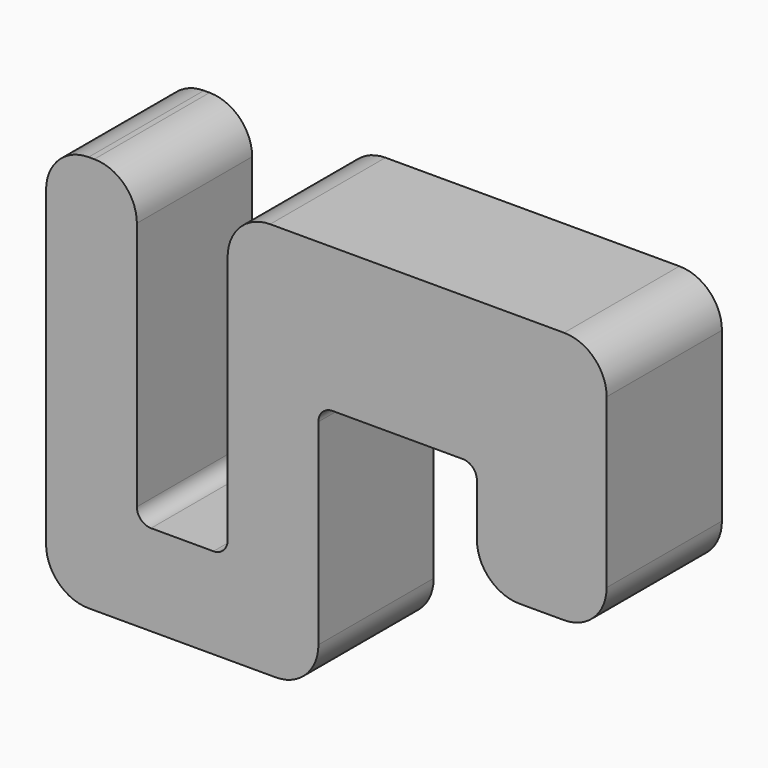
from build123d import *

# Parameters (mm, degrees)
F0_W     = 10.16
F0_H     = 5.08
F0_W_2   = 3.2
F0_H_2   = 3.2
F1_DEPTH = 5.08
F2_W     = 4.572
F2_H     = 5.08
F3_DEPTH = 3.84
F4_R     = 1.5
F5_R     = 0.5


with BuildPart() as f1:
    # F0 (on Front) → F1 (new body)
    with BuildSketch(Plane.XZ):
        with Locations((14.68, 11.46)):
            Rectangle(F0_W, F0_H)
        with BuildLine():
            ThreePointArc((0, 1.27), (0.371974, 0.371974), (1.27, 0))
            Line((1.27, 0), (3.2, 0))
            Line((3.2, 0), (3.2, 3.2))
            Line((3.2, 3.2), (3.2, 10.8))
            Line((3.2, 10.8), (0, 10.8))
            Line((0, 10.8), (0, 1.27))
        make_face()
        with Locations((4.8, 1.6)):
            Rectangle(F0_W_2, F0_H_2)
        with BuildLine():
            Line((6.4, 3.2), (6.4, 0))
            Line((6.4, 0), (8.33, 0))
            ThreePointArc((8.33, 0), (9.228026, 0.371974), (9.6, 1.27))
            Line((9.6, 1.27), (9.6, 8.92))
            Line((9.6, 8.92), (9.6, 14))
            Line((9.6, 14), (6.4, 14))
            Line((6.4, 14), (6.4, 3.2))
        make_face()
        with BuildLine():
            Line((0, 0), (1.27, 0))
            ThreePointArc((1.27, 0), (0.371974, 0.371974), (0, 1.27))
            Line((0, 1.27), (0, 0))
        make_face()
        with BuildLine():
            ThreePointArc((9.6, 1.27), (9.228026, 0.371974), (8.33, 0))
            Line((8.33, 0), (9.6, 0))
            Line((9.6, 0), (9.6, 1.27))
        make_face()
        with BuildLine():
            Line((0, 12.73), (0, 10.8))
            Line((0, 10.8), (3.2, 10.8))
            Line((3.2, 10.8), (3.2, 14))
            Line((3.2, 14), (1.27, 14))
            ThreePointArc((1.27, 14), (0.371974, 13.628026), (0, 12.73))
        make_face()
        with BuildLine():
            Line((0, 14), (0, 12.73))
            ThreePointArc((0, 12.73), (0.371974, 13.628026), (1.27, 14))
            Line((1.27, 14), (0, 14))
        make_face()
    extrude(amount=F1_DEPTH)

    # F2 (on face) → F3 (join)
    with BuildSketch(Plane(origin=(0, 0, 8.92), x_dir=(1, 0, 0), z_dir=(0, 0, -1))):
        with Locations((17.474, 2.54)):
            Rectangle(F2_W, F2_H)
    extrude(amount=F3_DEPTH)

    # F4
    f4_edges = [f1.edges().sort_by_distance(p)[0] for p in [
        (0, -2.54, 0),
        (9.6, -2.54, 0),
        (0, -2.54, 14),
        (3.2, -2.54, 14),
        (6.4, -2.54, 14),
        (19.76, -2.54, 14),
        (19.76, -2.54, 5.08),
        (15.188, -2.54, 5.08),
    ]]
    fillet(f4_edges, radius=F4_R)

    # F5
    f5_edges = [f1.edges().sort_by_distance(p)[0] for p in [
        (6.4, -2.54, 3.2),
        (3.2, -2.54, 3.2),
        (15.188, -2.54, 8.92),
        (9.6, -2.54, 8.92),
    ]]
    fillet(f5_edges, radius=F5_R)


solid = f1.part
